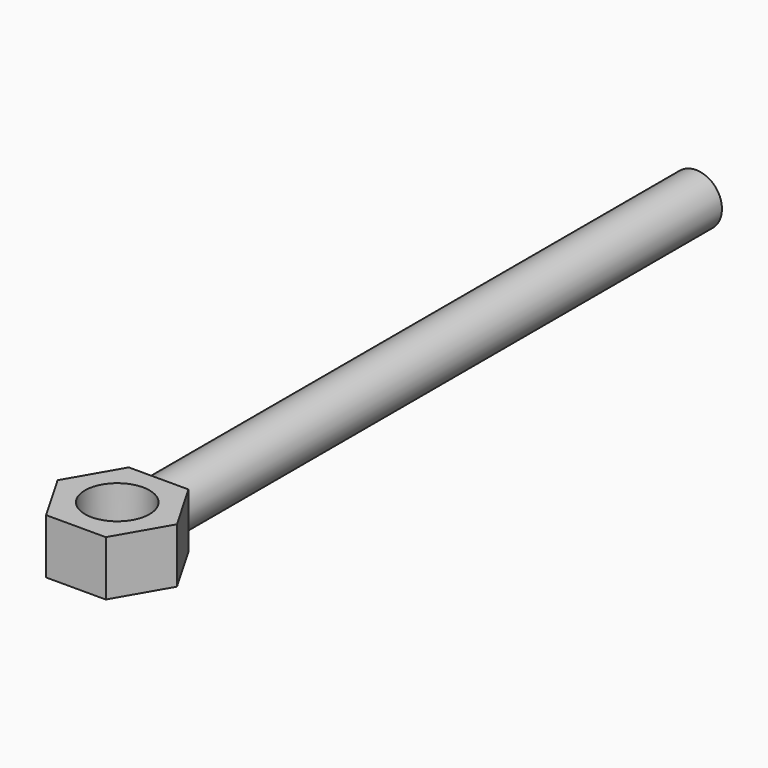
from build123d import *

# Parameters (mm, degrees)
F0_R     = 3.96875
F1_DEPTH = 6.746875
F2_R     = 3.175
F3_DEPTH = 82.55


with BuildPart() as f1:
    # F0 (on Top) → F1 (new body)
    with BuildSketch(Plane.XY):
        Polygon((3.666174, 6.35), (-3.666174, 6.35), (-7.332348, 0), (-3.666174, -6.35), (3.666174, -6.35), (7.332348, 0), align=None)
        Circle(F0_R, mode=Mode.SUBTRACT)
    extrude(amount=F1_DEPTH)

    # F2 (on face) → F3 (join)
    with BuildSketch(Plane(origin=(0, 6.35, 0), x_dir=(-1, 0, 0), z_dir=(0, 1, 0))):
        with Locations((0, 3.373438)):
            Circle(F2_R)
    extrude(amount=F3_DEPTH)


solid = f1.part
